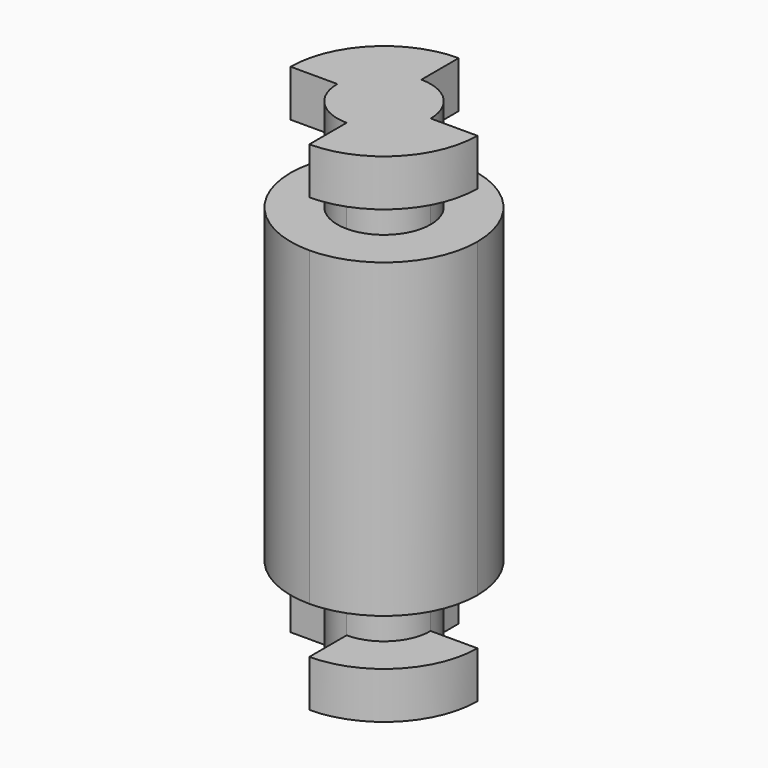
from build123d import *

# Parameters (mm, degrees)
F1_DEPTH = 40
F2_DEPTH = 32.5
F3_DEPTH = 25


with BuildPart() as f1:
    # F0 (on Top) → F1 (new body, symmetric)
    with BuildSketch(Plane.XY):
        with BuildLine():
            Line((0, 7.5), (0, 15))
            ThreePointArc((0, 15), (-10.606602, 10.606602), (-15, 0))
            Line((-15, 0), (-7.5, 0))
            ThreePointArc((-7.5, 0), (-5.303301, 5.303301), (0, 7.5))
        make_face()
        with BuildLine():
            ThreePointArc((0, -15), (10.606602, -10.606602), (15, 0))
            Line((15, 0), (7.5, 0))
            ThreePointArc((7.5, 0), (5.303301, -5.303301), (0, -7.5))
            Line((0, -7.5), (0, -15))
        make_face()
        with BuildLine():
            ThreePointArc((0, -7.5), (5.303301, -5.303301), (7.5, 0))
            ThreePointArc((7.5, 0), (5.303301, 5.303301), (0, 7.5))
            ThreePointArc((0, 7.5), (-5.303301, 5.303301), (-7.5, 0))
            ThreePointArc((-7.5, 0), (-5.303301, -5.303301), (0, -7.5))
        make_face()
    extrude(amount=F1_DEPTH, both=True)

    # F0 (on Top) → F2 (cut, symmetric)
    with BuildSketch(Plane.XY):
        with BuildLine():
            Line((0, 7.5), (0, 15))
            ThreePointArc((0, 15), (-10.606602, 10.606602), (-15, 0))
            Line((-15, 0), (-7.5, 0))
            ThreePointArc((-7.5, 0), (-5.303301, 5.303301), (0, 7.5))
        make_face()
        with BuildLine():
            ThreePointArc((0, -15), (10.606602, -10.606602), (15, 0))
            Line((15, 0), (7.5, 0))
            ThreePointArc((7.5, 0), (5.303301, -5.303301), (0, -7.5))
            Line((0, -7.5), (0, -15))
        make_face()
    extrude(amount=F2_DEPTH, both=True, mode=Mode.SUBTRACT)

    # F0 (on Top) → F3 (join, symmetric)
    with BuildSketch(Plane.XY):
        with BuildLine():
            Line((0, 7.5), (0, 15))
            ThreePointArc((0, 15), (-10.606602, 10.606602), (-15, 0))
            Line((-15, 0), (-7.5, 0))
            ThreePointArc((-7.5, 0), (-5.303301, 5.303301), (0, 7.5))
        make_face()
        with BuildLine():
            ThreePointArc((-15, 0), (-10.606602, -10.606602), (0, -15))
            Line((0, -15), (0, -7.5))
            ThreePointArc((0, -7.5), (-5.303301, -5.303301), (-7.5, 0))
            Line((-7.5, 0), (-15, 0))
        make_face()
        with BuildLine():
            Line((7.5, 0), (15, 0))
            ThreePointArc((15, 0), (10.606602, 10.606602), (0, 15))
            Line((0, 15), (0, 7.5))
            ThreePointArc((0, 7.5), (5.303301, 5.303301), (7.5, 0))
        make_face()
        with BuildLine():
            ThreePointArc((0, -15), (10.606602, -10.606602), (15, 0))
            Line((15, 0), (7.5, 0))
            ThreePointArc((7.5, 0), (5.303301, -5.303301), (0, -7.5))
            Line((0, -7.5), (0, -15))
        make_face()
    extrude(amount=F3_DEPTH, both=True)


solid = f1.part
